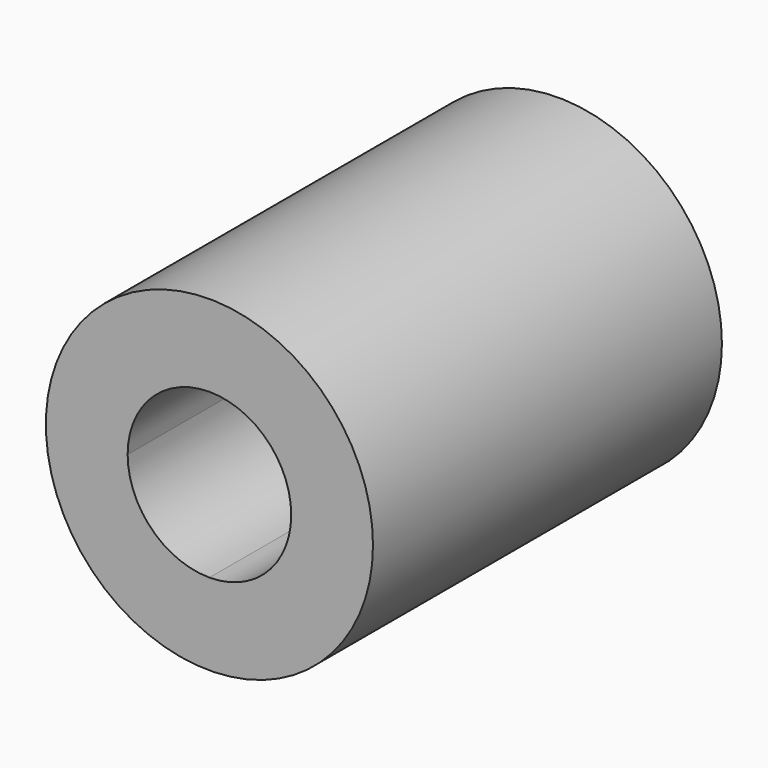
from build123d import *

# Parameters (mm, degrees)
F0_R     = 9.525
F1_DEPTH = 25.4
F3_DEPTH = 30.607


with BuildPart() as f1:
    # F0 (on Front) → F1 (new body)
    with BuildSketch(Plane.XZ):
        Circle(F0_R)
    extrude(amount=F1_DEPTH)

    # F2 (on Front) → F3 (cut)
    with BuildSketch(Plane.XZ):
        with BuildLine():
            ThreePointArc((-4.7625, 0), (-3.367596, -3.367596), (0, -4.7625))
            ThreePointArc((0, -4.7625), (3.367596, -3.367596), (4.7625, 0))
            ThreePointArc((4.7625, 0), (3.367596, 3.367596), (0, 4.7625))
            ThreePointArc((0, 4.7625), (-3.367596, 3.367596), (-4.7625, 0))
        make_face()
    extrude(amount=F3_DEPTH, mode=Mode.SUBTRACT)


solid = f1.part
